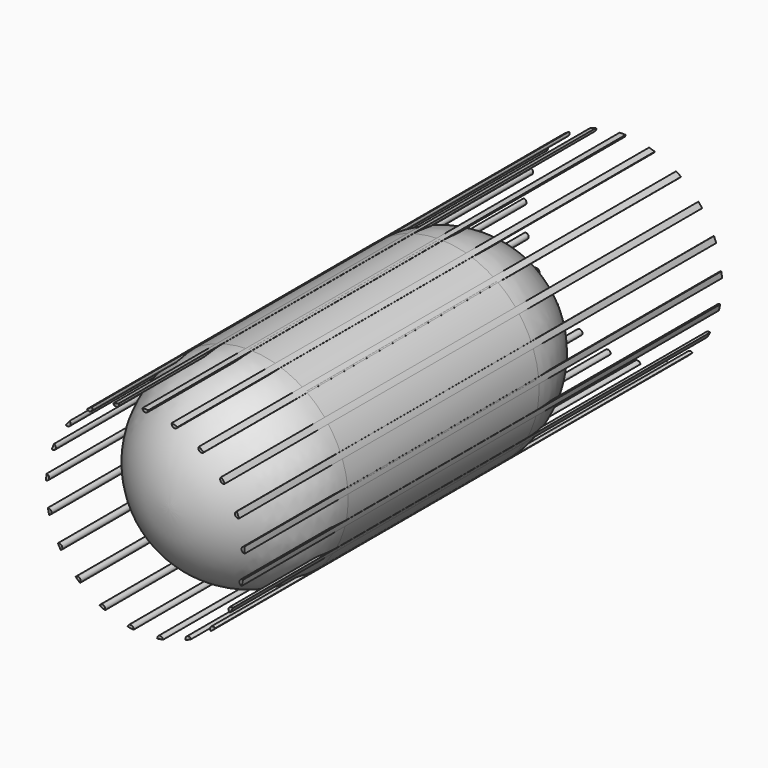
from build123d import *

# Parameters (mm, degrees)
F4_DEPTH = 60
F5_COUNT = 21


with BuildPart() as f1:
    # F0 (on Right) → F1 (revolve)
    with BuildSketch(Plane.YZ):
        with BuildLine():
            add(Edge.make_bspline(
                [(-12, 10), (-22, 10), (-22, 0)],
                knots=[4.712389, 4.712389, 4.712389, 6.283185, 6.283185, 6.283185], degree=2, weights=[1, 0.707107, 1]))
            Line((-22, 0), (-12, 0))
            Line((-12, 0), (-2, 0))
            add(Edge.make_bspline(
                [(-2, 0), (-2, 10), (-12, 10)],
                knots=[3.141593, 3.141593, 3.141593, 4.712389, 4.712389, 4.712389], degree=2, weights=[1, 0.707107, 1]))
        make_face()
        with BuildLine():
            Line((0, 10), (-12, 10))
            add(Edge.make_bspline(
                [(-2, 0), (-2, 10), (-12, 10)],
                knots=[3.141593, 3.141593, 3.141593, 4.712389, 4.712389, 4.712389], degree=2, weights=[1, 0.707107, 1]))
            Line((-2, 0), (0, 0))
            Line((0, 0), (0, 10))
        make_face()
        with BuildLine():
            Line((12, 10), (0, 10))
            Line((0, 10), (0, 0))
            Line((0, 0), (2, 0))
            add(Edge.make_bspline(
                [(12, 10), (2, 10), (2, 0)],
                knots=[1.570796, 1.570796, 1.570796, 3.141593, 3.141593, 3.141593], degree=2, weights=[1, 0.707107, 1]))
        make_face()
        with BuildLine():
            add(Edge.make_bspline(
                [(22, 0), (22, 10), (12, 10)],
                knots=[0, 0, 0, 1.570796, 1.570796, 1.570796], degree=2, weights=[1, 0.707107, 1]))
            add(Edge.make_bspline(
                [(12, 10), (2, 10), (2, 0)],
                knots=[1.570796, 1.570796, 1.570796, 3.141593, 3.141593, 3.141593], degree=2, weights=[1, 0.707107, 1]))
            Line((2, 0), (12, 0))
            Line((12, 0), (22, 0))
        make_face()
    revolve(axis=Axis((0, 0, 0), (0, 1, 0)))


with BuildPart() as f4:
    # F3 (on offset) → F4 (new body)
    with BuildSketch(Plane.XZ.offset(25)):
        with BuildLine():
            ThreePointArc((0.299966, 9.9955), (0, 10), (-0.299966, 9.9955))
            ThreePointArc((-0.299966, 9.9955), (0, 9.7), (0.299966, 9.9955))
        make_face()
    extrude(amount=-F4_DEPTH)


with BuildPart() as f5_1:
    # F5: instance of F4
    add(f4.part.rotate(Axis((0, 0, 0), (0, 1, 0)), 1 * 360 / F5_COUNT))


with BuildPart() as f5_2:
    # F5: instance of F4
    add(f4.part.rotate(Axis((0, 0, 0), (0, 1, 0)), 2 * 360 / F5_COUNT))


with BuildPart() as f5_3:
    # F5: instance of F4
    add(f4.part.rotate(Axis((0, 0, 0), (0, 1, 0)), 3 * 360 / F5_COUNT))


with BuildPart() as f5_4:
    # F5: instance of F4
    add(f4.part.rotate(Axis((0, 0, 0), (0, 1, 0)), 4 * 360 / F5_COUNT))


with BuildPart() as f5_5:
    # F5: instance of F4
    add(f4.part.rotate(Axis((0, 0, 0), (0, 1, 0)), 5 * 360 / F5_COUNT))


with BuildPart() as f5_6:
    # F5: instance of F4
    add(f4.part.rotate(Axis((0, 0, 0), (0, 1, 0)), 6 * 360 / F5_COUNT))


with BuildPart() as f5_7:
    # F5: instance of F4
    add(f4.part.rotate(Axis((0, 0, 0), (0, 1, 0)), 7 * 360 / F5_COUNT))


with BuildPart() as f5_8:
    # F5: instance of F4
    add(f4.part.rotate(Axis((0, 0, 0), (0, 1, 0)), 8 * 360 / F5_COUNT))


with BuildPart() as f5_9:
    # F5: instance of F4
    add(f4.part.rotate(Axis((0, 0, 0), (0, 1, 0)), 9 * 360 / F5_COUNT))


with BuildPart() as f5_10:
    # F5: instance of F4
    add(f4.part.rotate(Axis((0, 0, 0), (0, 1, 0)), 10 * 360 / F5_COUNT))


with BuildPart() as f5_11:
    # F5: instance of F4
    add(f4.part.rotate(Axis((0, 0, 0), (0, 1, 0)), 11 * 360 / F5_COUNT))


with BuildPart() as f5_12:
    # F5: instance of F4
    add(f4.part.rotate(Axis((0, 0, 0), (0, 1, 0)), 12 * 360 / F5_COUNT))


with BuildPart() as f5_13:
    # F5: instance of F4
    add(f4.part.rotate(Axis((0, 0, 0), (0, 1, 0)), 13 * 360 / F5_COUNT))


with BuildPart() as f5_14:
    # F5: instance of F4
    add(f4.part.rotate(Axis((0, 0, 0), (0, 1, 0)), 14 * 360 / F5_COUNT))


with BuildPart() as f5_15:
    # F5: instance of F4
    add(f4.part.rotate(Axis((0, 0, 0), (0, 1, 0)), 15 * 360 / F5_COUNT))


with BuildPart() as f5_16:
    # F5: instance of F4
    add(f4.part.rotate(Axis((0, 0, 0), (0, 1, 0)), 16 * 360 / F5_COUNT))


with BuildPart() as f5_17:
    # F5: instance of F4
    add(f4.part.rotate(Axis((0, 0, 0), (0, 1, 0)), 17 * 360 / F5_COUNT))


with BuildPart() as f5_18:
    # F5: instance of F4
    add(f4.part.rotate(Axis((0, 0, 0), (0, 1, 0)), 18 * 360 / F5_COUNT))


with BuildPart() as f5_19:
    # F5: instance of F4
    add(f4.part.rotate(Axis((0, 0, 0), (0, 1, 0)), 19 * 360 / F5_COUNT))


with BuildPart() as f5_20:
    # F5: instance of F4
    add(f4.part.rotate(Axis((0, 0, 0), (0, 1, 0)), 20 * 360 / F5_COUNT))


solid = Compound([f1.part, f4.part, f5_1.part, f5_2.part, f5_3.part, f5_4.part, f5_5.part, f5_6.part, f5_7.part, f5_8.part, f5_9.part, f5_10.part, f5_11.part, f5_12.part, f5_13.part, f5_14.part, f5_15.part, f5_16.part, f5_17.part, f5_18.part, f5_19.part, f5_20.part])
